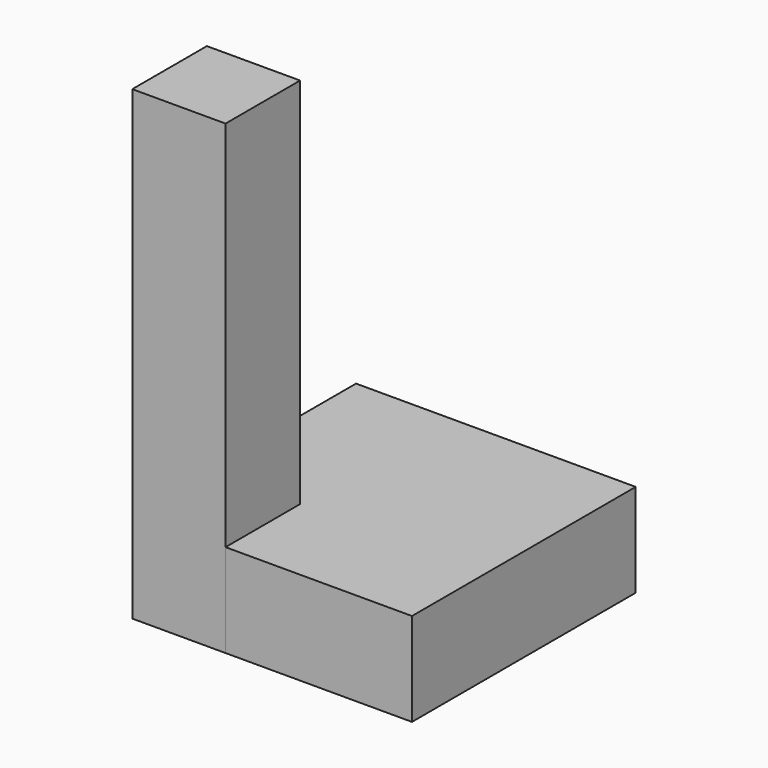
from build123d import *

# Parameters (mm, degrees)
BOX_W        = 30
BOX_H        = 30
BOX_DEPTH    = 10
BOX001_W     = 10
BOX001_H     = 10
BOX001_DEPTH = 50


with BuildPart() as cub:
    # Box → Box (new body)
    with BuildSketch(Plane.XY):
        with Locations((15, 15)):
            Rectangle(BOX_W, BOX_H)
    extrude(amount=BOX_DEPTH)


with BuildPart() as cub001:
    # Box001 → Box001 (new body)
    with BuildSketch(Plane.XY):
        with Locations((5, 5)):
            Rectangle(BOX001_W, BOX001_H)
    extrude(amount=BOX001_DEPTH)


solid = Compound([cub.part, cub001.part])
